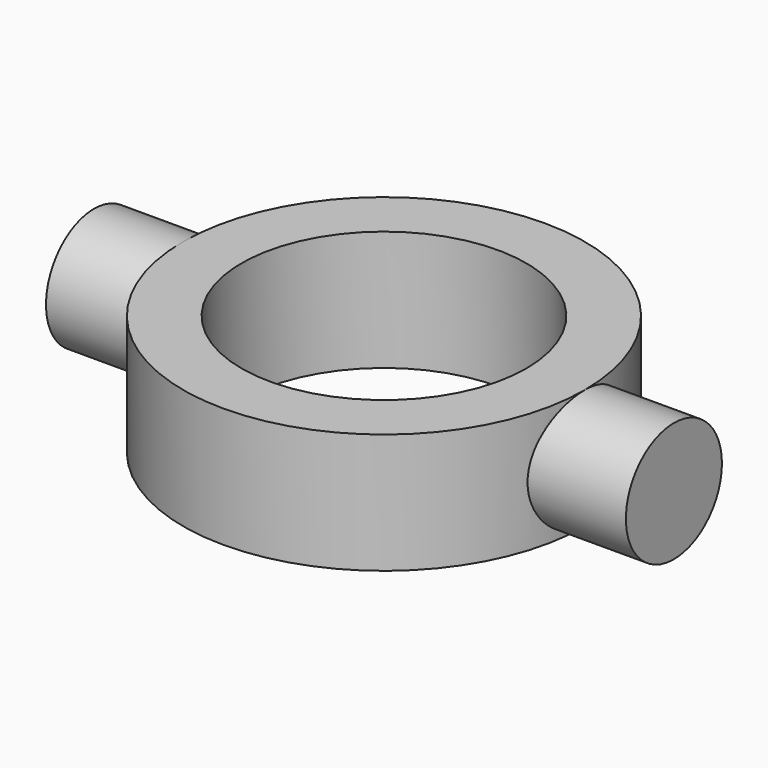
from build123d import *

# Parameters (mm, degrees)
F0_R          = 1.78
F1_DEPTH      = 8.6
F1_DEPTH_BACK = 8.6
F2_R          = 5.955
F3_DEPTH      = 3.56
F4_R          = 4.225
F5_DEPTH      = 3.56


with BuildPart() as f1:
    # F0 (on Right) → F1 (new body, two sides)
    with BuildSketch(Plane.YZ) as f1_sk:
        with Locations((0, 1.78)):
            Circle(F0_R)
    extrude(amount=-F1_DEPTH)
    extrude(f1_sk.sketch, amount=F1_DEPTH_BACK)

    # F2 (on Top) → F3 (join)
    with BuildSketch(Plane.XY):
        Circle(F2_R)
    extrude(amount=F3_DEPTH)

    # F4 (on face) → F5 (cut)
    with BuildSketch(Plane.XY.offset(3.56)):
        Circle(F4_R)
    extrude(amount=-F5_DEPTH, mode=Mode.SUBTRACT)


solid = f1.part
